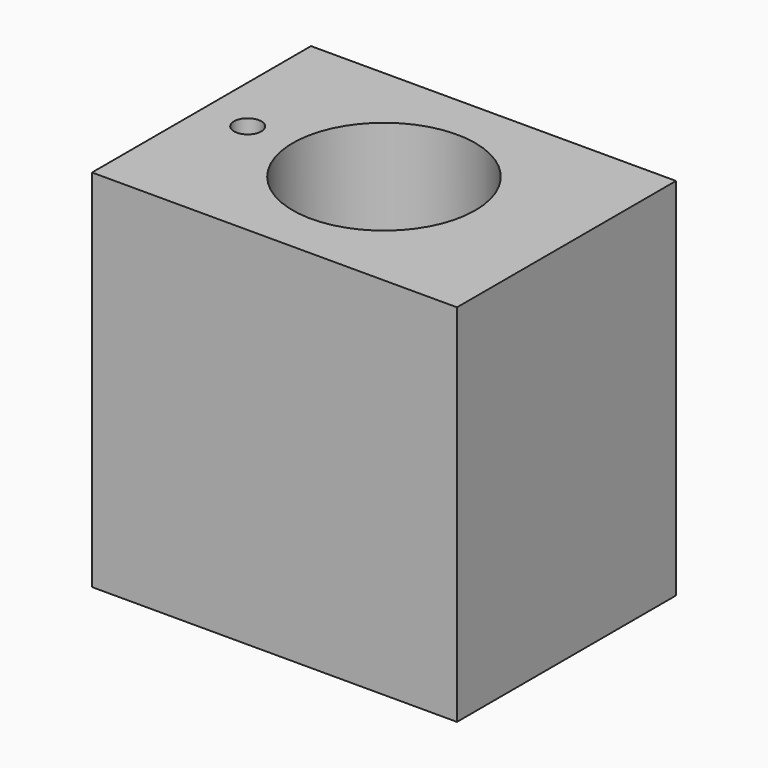
from build123d import *

# Parameters (mm, degrees)
F0_W     = 25.4
F0_H     = 19.05
F0_R     = 0.9525
F1_DEPTH = 25.4


with BuildPart() as f1:
    # F0 (on Top) → F1 (new body)
    with BuildSketch(Plane.XY):
        with Locations((12.7, 9.525)):
            Rectangle(F0_W, F0_H)
        with Locations((3.21505, 9.525)):
            Circle(F0_R, mode=Mode.SUBTRACT)
        with BuildLine():
            ThreePointArc((6.35, 9.525), (12.7, 15.875), (19.05, 9.525))
            ThreePointArc((19.05, 9.525), (12.7, 3.175), (6.35, 9.525))
        make_face(mode=Mode.SUBTRACT)
    extrude(amount=F1_DEPTH)


solid = f1.part
